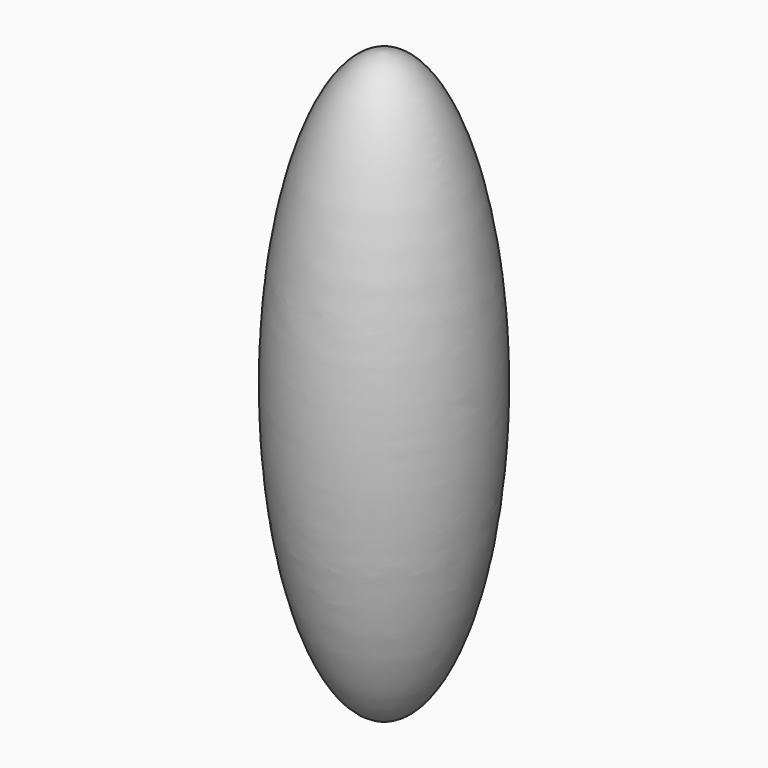
from build123d import *


with BuildPart() as f1:
    # F0 (on Front) → F1 (revolve)
    with BuildSketch(Plane.XZ):
        with BuildLine():
            Line((0, 0), (0, -38.1))
            add(Edge.make_bspline(
                [(0, -38.1), (12.7, -38.1), (12.7, 0)],
                knots=[3.1415926536, 3.1415926536, 3.1415926536, 4.7123889804, 4.7123889804, 4.7123889804], degree=2, weights=[1, 0.7071067812, 1]))
            Line((12.7, 0), (0, 0))
        make_face()
        with BuildLine():
            Line((0, 0), (12.7, 0))
            add(Edge.make_bspline(
                [(12.7, 0), (12.7, 38.1), (0, 38.1)],
                knots=[4.7123889804, 4.7123889804, 4.7123889804, 6.2831853072, 6.2831853072, 6.2831853072], degree=2, weights=[1, 0.7071067812, 1]))
            Line((0, 38.1), (0, 0))
        make_face()
    revolve(axis=Axis((0, 0, 19.05), (0, 0, 1)))


solid = f1.part
